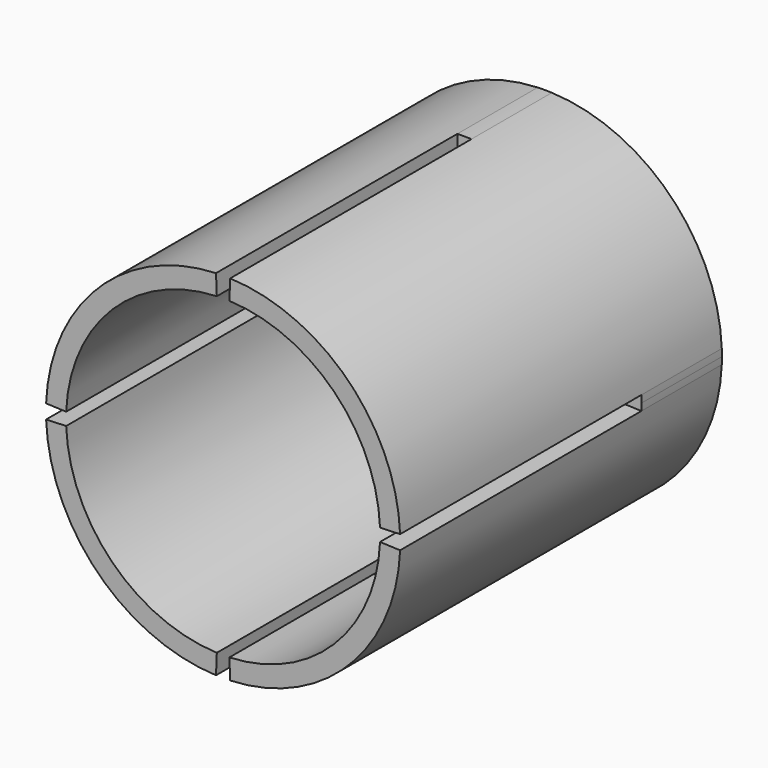
from build123d import *

# Parameters (mm, degrees)
F0_R     = 0.5
F1_DEPTH = 1
F2_DEPTH = 15
F3_DEPTH = 3


with BuildPart() as f1:
    # F0 (on Front) → F1 (new body)
    with BuildSketch(Plane.XZ):
        with BuildLine():
            ThreePointArc((-6.244998, 0.25), (-4.419417, 4.419417), (-0.25, 6.244998))
            Line((-0.25, 6.244998), (-0.282, 7.044358))
            ThreePointArc((-0.282, 7.044358), (-4.985103, 4.985103), (-7.044358, 0.282))
            Line((-7.044358, 0.282), (-6.244998, 0.25))
        make_face()
        with BuildLine():
            ThreePointArc((-0.25, 6.244998), (0, 6.25), (0.25, 6.244998))
            Line((0.25, 6.244998), (0.282, 7.044358))
            ThreePointArc((0.282, 7.044358), (0, 7.05), (-0.282, 7.044358))
            Line((-0.282, 7.044358), (-0.25, 6.244998))
        make_face()
        with BuildLine():
            ThreePointArc((6.25, 0), (6.248749, 0.125025), (6.244998, 0.25))
            ThreePointArc((6.244998, 0.25), (4.419417, 4.419417), (0.25, 6.244998))
            ThreePointArc((0.25, 6.244998), (0, 6.25), (-0.25, 6.244998))
            ThreePointArc((-0.25, 6.244998), (-4.419417, 4.419417), (-6.244998, 0.25))
            ThreePointArc((-6.244998, 0.25), (-6.25, 0), (-6.244998, -0.25))
            ThreePointArc((-6.244998, -0.25), (-4.419417, -4.419417), (-0.25, -6.244998))
            ThreePointArc((-0.25, -6.244998), (0, -6.25), (0.25, -6.244998))
            ThreePointArc((0.25, -6.244998), (4.419417, -4.419417), (6.244998, -0.25))
            ThreePointArc((6.244998, -0.25), (6.248749, -0.125025), (6.25, 0))
        make_face()
        with Locations((-2.12132, -2.12132)):
            Circle(F0_R, mode=Mode.SUBTRACT)
        with Locations((2.12132, -2.12132)):
            Circle(F0_R, mode=Mode.SUBTRACT)
        with Locations((-2.12132, 2.12132)):
            Circle(F0_R, mode=Mode.SUBTRACT)
        with Locations((2.12132, 2.12132)):
            Circle(F0_R, mode=Mode.SUBTRACT)
        with BuildLine():
            ThreePointArc((0.25, 6.244998), (4.419417, 4.419417), (6.244998, 0.25))
            Line((6.244998, 0.25), (7.044358, 0.282))
            ThreePointArc((7.044358, 0.282), (4.985103, 4.985103), (0.282, 7.044358))
            Line((0.282, 7.044358), (0.25, 6.244998))
        make_face()
        with BuildLine():
            Line((7.044358, 0.282), (6.244998, 0.25))
            ThreePointArc((6.244998, 0.25), (6.248749, 0.125025), (6.25, 0))
            ThreePointArc((6.25, 0), (6.248749, -0.125025), (6.244998, -0.25))
            Line((6.244998, -0.25), (7.044358, -0.282))
            ThreePointArc((7.044358, -0.282), (7.048589, -0.141028), (7.05, 0))
            ThreePointArc((7.05, 0), (7.048589, 0.141028), (7.044358, 0.282))
        make_face()
        with BuildLine():
            Line((7.044358, -0.282), (6.244998, -0.25))
            ThreePointArc((6.244998, -0.25), (4.419417, -4.419417), (0.25, -6.244998))
            Line((0.25, -6.244998), (0.282, -7.044358))
            ThreePointArc((0.282, -7.044358), (4.985103, -4.985103), (7.044358, -0.282))
        make_face()
        with BuildLine():
            Line((0.282, -7.044358), (0.25, -6.244998))
            ThreePointArc((0.25, -6.244998), (0, -6.25), (-0.25, -6.244998))
            Line((-0.25, -6.244998), (-0.282, -7.044358))
            ThreePointArc((-0.282, -7.044358), (0, -7.05), (0.282, -7.044358))
        make_face()
        with BuildLine():
            ThreePointArc((-0.25, -6.244998), (-4.419417, -4.419417), (-6.244998, -0.25))
            Line((-6.244998, -0.25), (-7.044358, -0.282))
            ThreePointArc((-7.044358, -0.282), (-4.985103, -4.985103), (-0.282, -7.044358))
            Line((-0.282, -7.044358), (-0.25, -6.244998))
        make_face()
        with BuildLine():
            ThreePointArc((-6.244998, -0.25), (-6.25, 0), (-6.244998, 0.25))
            Line((-6.244998, 0.25), (-7.044358, 0.282))
            ThreePointArc((-7.044358, 0.282), (-7.05, 0), (-7.044358, -0.282))
            Line((-7.044358, -0.282), (-6.244998, -0.25))
        make_face()
    extrude(amount=-F1_DEPTH)

    # F0 (on Front) → F2 (join)
    with BuildSketch(Plane.XZ):
        with BuildLine():
            ThreePointArc((-6.244998, 0.25), (-4.419417, 4.419417), (-0.25, 6.244998))
            Line((-0.25, 6.244998), (-0.282, 7.044358))
            ThreePointArc((-0.282, 7.044358), (-4.985103, 4.985103), (-7.044358, 0.282))
            Line((-7.044358, 0.282), (-6.244998, 0.25))
        make_face()
        with BuildLine():
            ThreePointArc((0.25, 6.244998), (4.419417, 4.419417), (6.244998, 0.25))
            Line((6.244998, 0.25), (7.044358, 0.282))
            ThreePointArc((7.044358, 0.282), (4.985103, 4.985103), (0.282, 7.044358))
            Line((0.282, 7.044358), (0.25, 6.244998))
        make_face()
        with BuildLine():
            Line((7.044358, -0.282), (6.244998, -0.25))
            ThreePointArc((6.244998, -0.25), (4.419417, -4.419417), (0.25, -6.244998))
            Line((0.25, -6.244998), (0.282, -7.044358))
            ThreePointArc((0.282, -7.044358), (4.985103, -4.985103), (7.044358, -0.282))
        make_face()
        with BuildLine():
            ThreePointArc((-0.25, -6.244998), (-4.419417, -4.419417), (-6.244998, -0.25))
            Line((-6.244998, -0.25), (-7.044358, -0.282))
            ThreePointArc((-7.044358, -0.282), (-4.985103, -4.985103), (-0.282, -7.044358))
            Line((-0.282, -7.044358), (-0.25, -6.244998))
        make_face()
    extrude(amount=F2_DEPTH)

    # F0 (on Front) → F3 (join)
    with BuildSketch(Plane.XZ):
        with BuildLine():
            ThreePointArc((-6.244998, -0.25), (-6.25, 0), (-6.244998, 0.25))
            Line((-6.244998, 0.25), (-7.044358, 0.282))
            ThreePointArc((-7.044358, 0.282), (-7.05, 0), (-7.044358, -0.282))
            Line((-7.044358, -0.282), (-6.244998, -0.25))
        make_face()
        with BuildLine():
            Line((0.282, -7.044358), (0.25, -6.244998))
            ThreePointArc((0.25, -6.244998), (0, -6.25), (-0.25, -6.244998))
            Line((-0.25, -6.244998), (-0.282, -7.044358))
            ThreePointArc((-0.282, -7.044358), (0, -7.05), (0.282, -7.044358))
        make_face()
        with BuildLine():
            Line((7.044358, 0.282), (6.244998, 0.25))
            ThreePointArc((6.244998, 0.25), (6.248749, 0.125025), (6.25, 0))
            ThreePointArc((6.25, 0), (6.248749, -0.125025), (6.244998, -0.25))
            Line((6.244998, -0.25), (7.044358, -0.282))
            ThreePointArc((7.044358, -0.282), (7.048589, -0.141028), (7.05, 0))
            ThreePointArc((7.05, 0), (7.048589, 0.141028), (7.044358, 0.282))
        make_face()
        with BuildLine():
            ThreePointArc((-0.25, 6.244998), (0, 6.25), (0.25, 6.244998))
            Line((0.25, 6.244998), (0.282, 7.044358))
            ThreePointArc((0.282, 7.044358), (0, 7.05), (-0.282, 7.044358))
            Line((-0.282, 7.044358), (-0.25, 6.244998))
        make_face()
    extrude(amount=F3_DEPTH)


solid = f1.part
